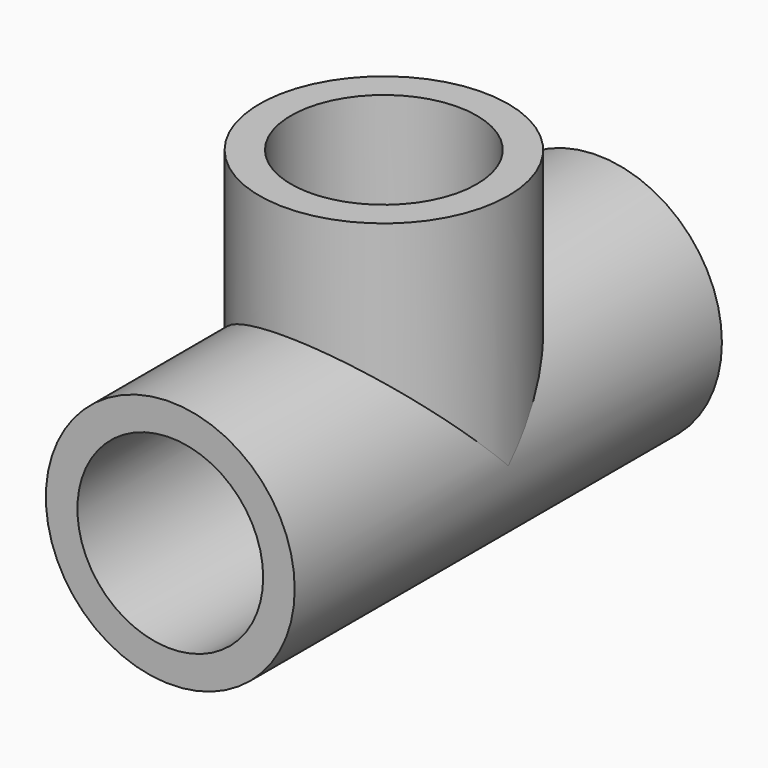
from build123d import *

# Parameters (mm, degrees)
F0_R     = 14.4
F0_R_2   = 10.75
F1_DEPTH = 61.8
F2_R     = 14.4
F2_R_2   = 10.75
F3_DEPTH = 27.5
F5_D     = 8
F5_DEPTH = 14.401


with BuildPart() as f1:
    # F0 (on Front) → F1 (new body)
    with BuildSketch(Plane.XZ):
        Circle(F0_R)
        Circle(F0_R_2, mode=Mode.SUBTRACT)
    extrude(amount=F1_DEPTH)

    # F2 (on Top) → F3 (join)
    with BuildSketch(Plane.XY):
        with Locations((0, -30.9)):
            Circle(F2_R)
        with Locations((0, -30.9)):
            Circle(F2_R_2, mode=Mode.SUBTRACT)
    extrude(amount=F3_DEPTH)

    # F5 (through all, one way)
    with BuildSketch(Plane.XY):
        with Locations((0, -30.9)):
            Circle(F5_D / 2)
    extrude(amount=-F5_DEPTH, mode=Mode.SUBTRACT)


solid = f1.part
